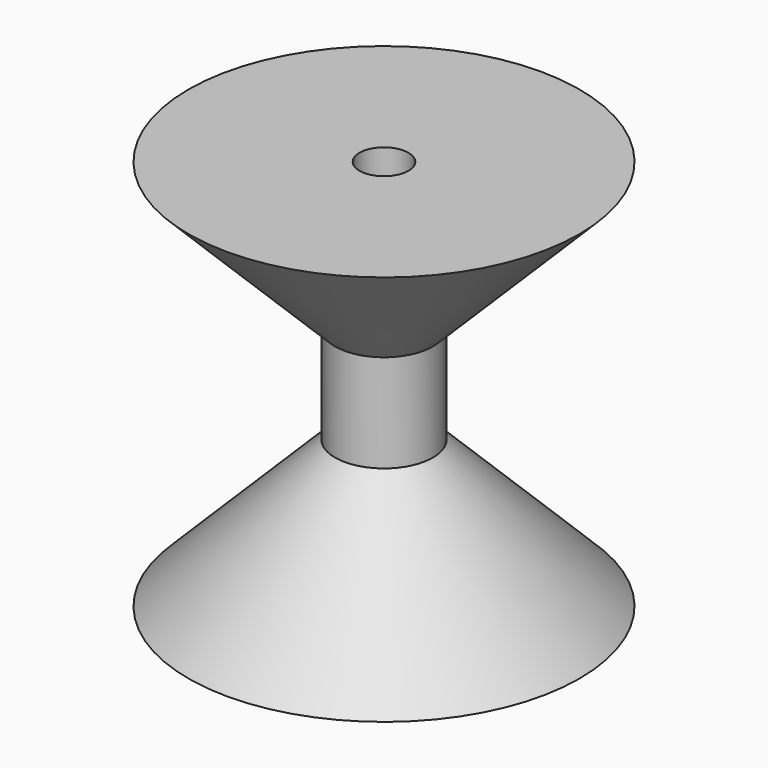
from build123d import *

# Parameters (mm, degrees)
F2_R     = 5
F3_DEPTH = 80


with BuildPart() as f1:
    # F0 (on Front) → F1 (revolve)
    with BuildSketch(Plane.XZ):
        Polygon((0, 0), (0, 80), (-40, 80), (-10, 50), (-10, 30), (-40, 0), align=None)
    revolve(axis=Axis((0, 0, 40), (0, 0, 1)))

    # F2 (on face) → F3 (cut, through all)
    with BuildSketch(Plane(origin=(0, 0, 0), x_dir=(1, 0, 0), z_dir=(0, 0, -1))):
        Circle(F2_R)
    extrude(amount=-F3_DEPTH, mode=Mode.SUBTRACT)


solid = f1.part
